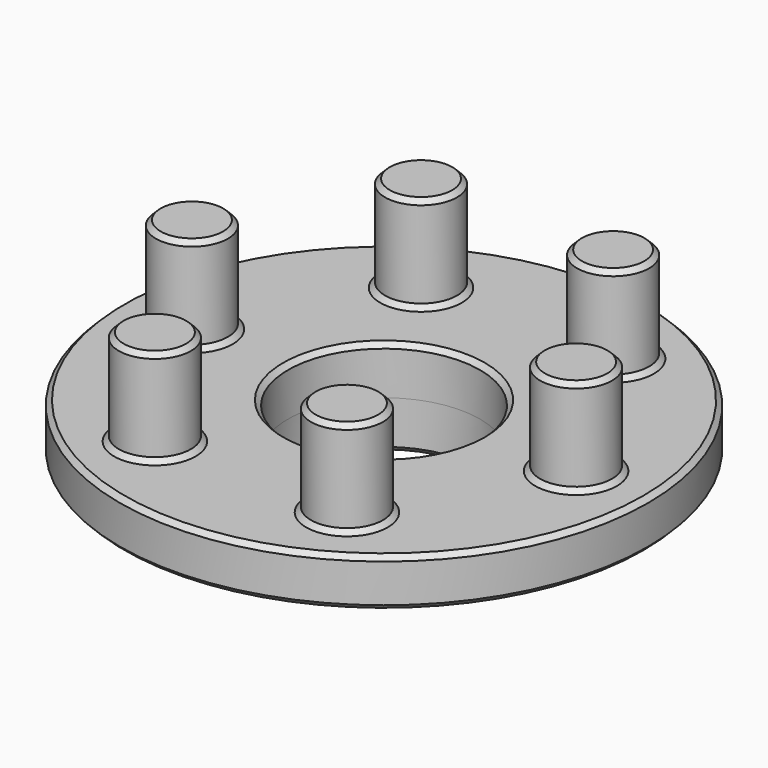
from build123d import *

# Parameters (mm, degrees)
F0_R     = 1.5
F1_DEPTH = 4
F0_R_2   = 11
F0_R_3   = 4
F2_DEPTH = 2
F3_R     = 5
F3_R_2   = 4
F4_DEPTH = 2
F5_SIZE  = 0.2


with BuildPart() as f1:
    # F0 (on Top) → F1 (new body)
    with BuildSketch(Plane.XY):
        with Locations((-8, 0)):
            Circle(F0_R)
    extrude(amount=F1_DEPTH)



with BuildPart() as f1b:
    # F0 (on Top) → F1, piece 2 (new body)
    with BuildSketch(Plane.XY):
        with Locations((-4, 6.9282032303)):
            Circle(F0_R)
    extrude(amount=F1_DEPTH)


with BuildPart() as f1c:
    # F0 (on Top) → F1, piece 3 (new body)
    with BuildSketch(Plane.XY):
        with Locations((4, 6.9282032303)):
            Circle(F0_R)
    extrude(amount=F1_DEPTH)


with BuildPart() as f1d:
    # F0 (on Top) → F1, piece 4 (new body)
    with BuildSketch(Plane.XY):
        with Locations((8, 0)):
            Circle(F0_R)
    extrude(amount=F1_DEPTH)


with BuildPart() as f1e:
    # F0 (on Top) → F1, piece 5 (new body)
    with BuildSketch(Plane.XY):
        with Locations((4, -6.9282032303)):
            Circle(F0_R)
    extrude(amount=F1_DEPTH)


with BuildPart() as f1f:
    # F0 (on Top) → F1, piece 6 (new body)
    with BuildSketch(Plane.XY):
        with Locations((-4, -6.9282032303)):
            Circle(F0_R)
    extrude(amount=F1_DEPTH)


with BuildPart() as f1_1:
    add(f1.part)

    add(f1b.part)  # F2 merges F1b

    add(f1c.part)  # F2 merges F1c

    add(f1d.part)  # F2 merges F1d

    add(f1e.part)  # F2 merges F1e

    add(f1f.part)  # F2 merges F1f
    # F0 (on Top) → F2 (join)
    with BuildSketch(Plane.XY):
        Circle(F0_R_2)
        with Locations((-4, -6.9282032303)):
            Circle(F0_R, mode=Mode.SUBTRACT)
        with Locations((4, -6.9282032303)):
            Circle(F0_R, mode=Mode.SUBTRACT)
        with Locations((-8, 0)):
            Circle(F0_R, mode=Mode.SUBTRACT)
        with Locations((-4, 6.9282032303)):
            Circle(F0_R, mode=Mode.SUBTRACT)
        Circle(F0_R_3, mode=Mode.SUBTRACT)
        with Locations((8, 0)):
            Circle(F0_R, mode=Mode.SUBTRACT)
        with Locations((4, 6.9282032303)):
            Circle(F0_R, mode=Mode.SUBTRACT)
        with Locations((4, -6.9282032303)):
            Circle(F0_R)
        with Locations((8, 0)):
            Circle(F0_R)
        with Locations((4, 6.9282032303)):
            Circle(F0_R)
        with Locations((-4, 6.9282032303)):
            Circle(F0_R)
        with Locations((-8, 0)):
            Circle(F0_R)
        with Locations((-4, -6.9282032303)):
            Circle(F0_R)
    extrude(amount=-F2_DEPTH)

    # F3 (on face) → F4 (join)
    with BuildSketch(Plane(origin=(0, 0, -2), x_dir=(1, 0, 0), z_dir=(0, 0, -1))):
        Circle(F3_R)
        Circle(F3_R_2, mode=Mode.SUBTRACT)
    extrude(amount=F4_DEPTH)

    # F5
    f5_edges = [f1_1.edges().sort_by_distance(p)[0] for p in [
        (-11, 0, 0),
        (-5.5, -6.928203, 0),
        (-9.5, 0, 0),
        (2.5, -6.928203, 0),
        (-4, 0, 0),
        (6.5, 0, 0),
        (-5.5, 6.928203, 0),
        (2.5, 6.928203, 0),
        (6.5, 0, 4),
        (2.5, -6.928203, 4),
        (-5.5, -6.928203, 4),
        (-9.5, 0, 4),
        (-5.5, 6.928203, 4),
        (2.5, 6.928203, 4),
        (-4, 0, -4),
        (-5, 0, -4),
        (-5, 0, -2),
        (-11, 0, -2),
    ]]
    chamfer(f5_edges, length=F5_SIZE)


solid = f1_1.part
